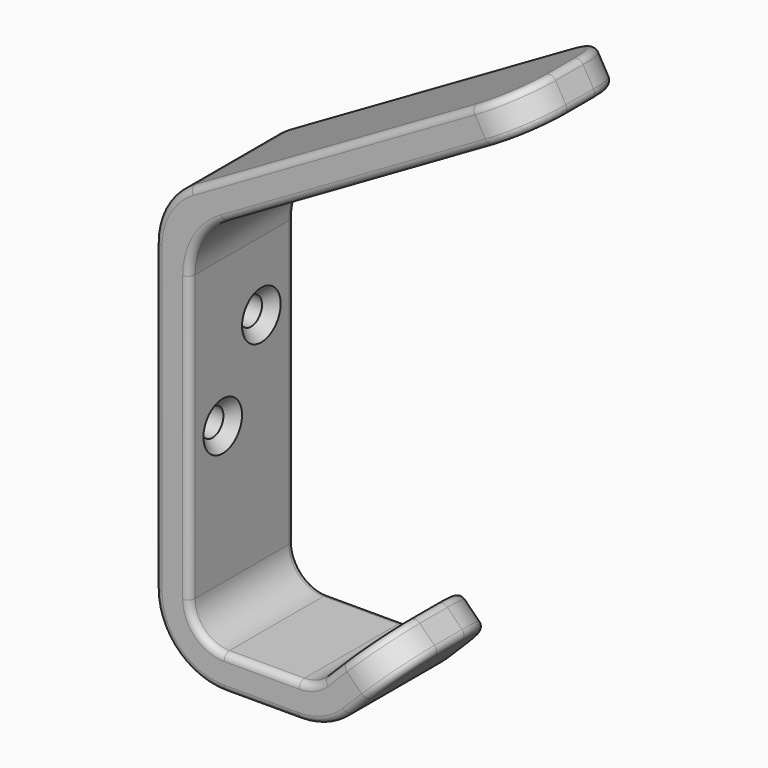
from build123d import *

# Parameters (mm, degrees)
F1_DEPTH        = 19
F2_R            = 10
F3_R            = 5
F4_R            = 10
F5_R            = 10.1
F6_R            = 5
F7_R            = 10
F8_R            = 7
F9_R            = 7
F10_R           = 7
F11_R           = 1
F12_R           = 1
F14_D           = 4
F14_CSINK_D     = 7
F14_CSINK_ANGLE = 90


with BuildPart() as f1:
    # F0 (on Front) → F1 (new body)
    with BuildSketch(Plane.XZ):
        Polygon((0, 60), (0, 0), (25, 0), (35.606602, 10.606602), (32.071068, 14.142136), (22.928932, 5), (5, 5), (5, 57.113249), (54.461524, 85.669873), (51.961524, 90), align=None)
    extrude(amount=F1_DEPTH)

    # F2
    f2_edges = [f1.edges().sort_by_distance(p)[0] for p in [
        (5, -9.5, 57.113249),
    ]]
    fillet(f2_edges, radius=F2_R)

    # F3
    f3_edges = [f1.edges().sort_by_distance(p)[0] for p in [
        (5, -9.5, 5),
    ]]
    fillet(f3_edges, radius=F3_R)

    # F4
    f4_edges = [f1.edges().sort_by_distance(p)[0] for p in [
        (0, -9.5, 0),
    ]]
    fillet(f4_edges, radius=F4_R)

    # F5
    f5_edges = [f1.edges().sort_by_distance(p)[0] for p in [
        (0, -9.5, 60),
    ]]
    fillet(f5_edges, radius=F5_R)

    # F6
    f6_edges = [f1.edges().sort_by_distance(p)[0] for p in [
        (22.928932, -9.5, 5),
    ]]
    fillet(f6_edges, radius=F6_R)

    # F7
    f7_edges = [f1.edges().sort_by_distance(p)[0] for p in [
        (25, -9.5, 0),
    ]]
    fillet(f7_edges, radius=F7_R)

    # F8
    f8_edges = [f1.edges().sort_by_distance(p)[0] for p in [
        (53.211524, -19, 87.834936),
        (53.211524, 0, 87.834936),
    ]]
    fillet(f8_edges, radius=F8_R)

    # F9
    f9_edges = [f1.edges().sort_by_distance(p)[0] for p in [
        (33.838835, -19, 12.374369),
    ]]
    fillet(f9_edges, radius=F9_R)

    # F10
    f10_edges = [f1.edges().sort_by_distance(p)[0] for p in [
        (33.838835, 0, 12.374369),
    ]]
    fillet(f10_edges, radius=F10_R)

    # F11
    f11_edges = [f1.edges().sort_by_distance(p)[0] for p in [
        (25.474673, 0, 74.707809),
        (50.185953, -2.050253, 88.974874),
        (5.05, -9.5, 62.915619),
        (51.961524, -9.5, 90),
        (25.474673, -19, 74.707809),
        (50.185953, -16.949747, 88.974874),
    ]]
    fillet(f11_edges, radius=F11_R)

    # F12
    f12_edges = [f1.edges().sort_by_distance(p)[0] for p in [
        (32.071068, -9.5, 14.142136),
        (30.62132, -2.050253, 12.692388),
        (30.62132, -16.949747, 12.692388),
        (25.757359, 0, 7.828427),
        (25.757359, -19, 7.828427),
        (24.393398, -9.5, 6.464466),
    ]]
    fillet(f12_edges, radius=F12_R)

    # F14 (through all)
    with Locations(Plane.YZ.offset(5)):
        with Locations((-6, 41.339746), (-13, 30)):
            CounterSinkHole(F14_D / 2, F14_CSINK_D / 2, counter_sink_angle=F14_CSINK_ANGLE)


solid = f1.part
